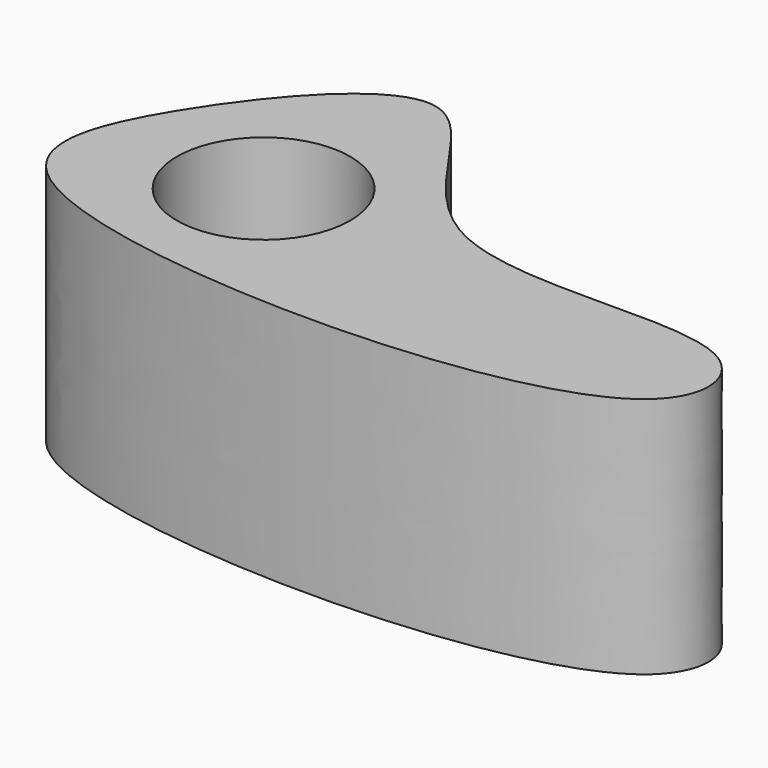
from build123d import *

# Parameters (mm, degrees)
F1_R     = 2.7257893685
F2_DEPTH = 7.62


with BuildPart() as f2:
    # F1 (on face) → F2 (new body)
    with BuildSketch(Plane.XY):
        with BuildLine():
            add(Edge.make_bspline(
                [(-18.5181410817, 4.8179623934), (-17.1900845642, 6.9929793733), (-13.0341962972, 11.7712437995), (-10.2047565996, 1.6093813159), (0.7120460721, 4.7103170121), (1.7118003867, -2.4658682715), (-21.4764568398, -2.2610304619), (-19.6709242292, 2.9299983746), (-18.5181410817, 4.8179623934)],
                knots=[0, 0, 0, 0, 0.1546434737, 0.3135535495, 0.4975237753, 0.6020783959, 0.865765961, 1, 1, 1, 1], degree=3))
        make_face()
        with Locations((-14.2560869455, 2.9340570793)):
            Circle(F1_R, mode=Mode.SUBTRACT)
    extrude(amount=F2_DEPTH)


solid = f2.part
